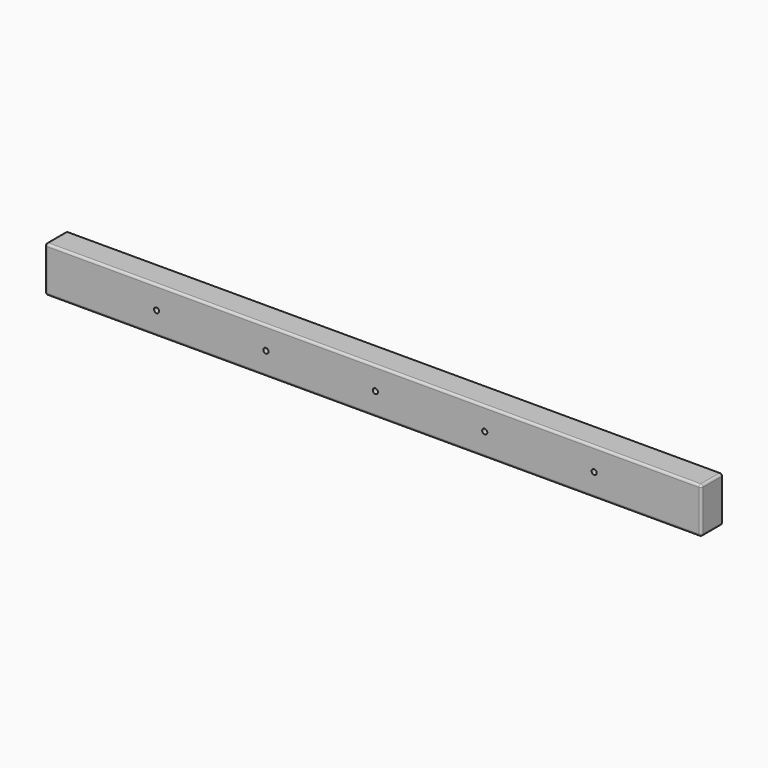
from build123d import *

# Parameters (mm, degrees)
F0_W     = 914.4
F0_H     = 63.5
F1_DEPTH = 38.1
F2_R     = 3.175
F4_D     = 7.1374


with BuildPart() as f1:
    # F0 (on Front) → F1 (new body)
    with BuildSketch(Plane.XZ):
        with Locations((457.2, -31.75)):
            Rectangle(F0_W, F0_H)
    extrude(amount=F1_DEPTH)

    # F2
    f2_edges = [f1.edges().sort_by_distance(p)[0] for p in [
        (457.2, -38.1, 0),
        (457.2, 0, 0),
        (457.2, -38.1, -63.5),
        (0, 0, -31.75),
        (0, -38.1, -31.75),
        (0, -19.05, 0),
        (0, -19.05, -63.5),
        (457.2, 0, -63.5),
        (914.4, -19.05, -63.5),
        (914.4, 0, -31.75),
        (914.4, -19.05, 0),
        (914.4, -38.1, -31.75),
    ]]
    fillet(f2_edges, radius=F2_R)

    # F4 (through all)
    with Locations(Plane.XZ.offset(38.1)):
        with Locations((155.575, -31.75), (307.975, -31.75), (612.775, -31.75), (460.375, -31.75), (765.175, -31.75)):
            Hole(F4_D / 2)


solid = f1.part
